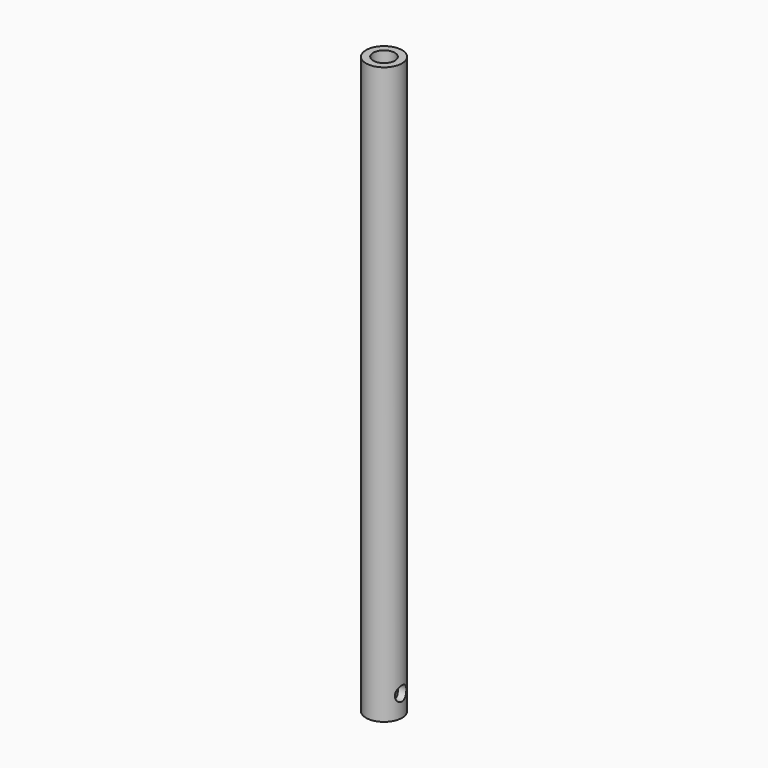
from build123d import *

# Parameters (mm, degrees)
F0_R     = 2.5
F0_R_2   = 1.5
F1_DEPTH = 80
F3_D     = 2
F3_DEPTH = 2.501
F4_D     = 2


with BuildPart() as f1:
    # F0 (on Top) → F1 (new body)
    with BuildSketch(Plane.XY):
        Circle(F0_R)
        Circle(F0_R_2, mode=Mode.SUBTRACT)
    extrude(amount=F1_DEPTH)

    # F3 (through all, one way)
    with BuildSketch(Plane.YZ):
        with Locations((0, 3)):
            Circle(F3_D / 2)
    extrude(amount=-F3_DEPTH, mode=Mode.SUBTRACT)

    # F4 (through all)
    with Locations(Plane(origin=(0, 0, 0), x_dir=(0, 1, 0), z_dir=(-1, 0, 0))):
        with Locations((0, -3)):
            Hole(F4_D / 2)


solid = f1.part
